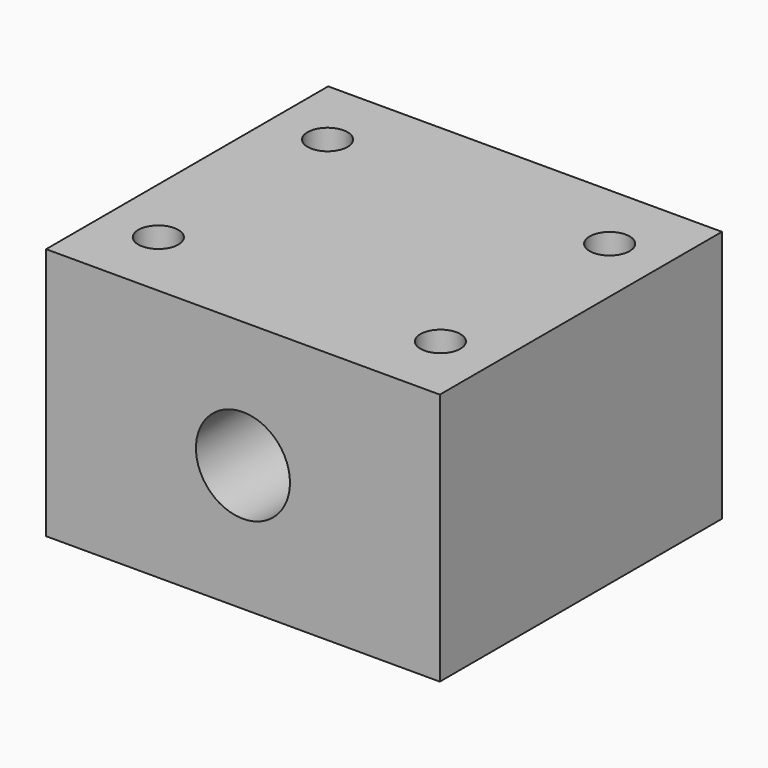
from build123d import *

# Parameters (mm, degrees)
SKETCH_W     = 33.5
SKETCH_H     = 21.5
SKETCH_R     = 4
PAD_DEPTH    = 30
SKETCH001_R  = 1.7
POCKET_DEPTH = 21.501


with BuildPart() as part:
    # Sketch → Pad (new body)
    with BuildSketch(Plane.XZ):
        Rectangle(SKETCH_W, SKETCH_H)
        Circle(SKETCH_R, mode=Mode.SUBTRACT)
    extrude(amount=PAD_DEPTH)

    # Sketch001 → Pocket (cut, through all)
    with BuildSketch(Plane(origin=(0, 0, -10.75), x_dir=(1, 0, 0), z_dir=(0, 0, -1))):
        with Locations((-12, 24)):
            Circle(SKETCH001_R)
        with Locations((12, 24)):
            Circle(SKETCH001_R)
        with Locations((12, 6)):
            Circle(SKETCH001_R)
        with Locations((-12, 6)):
            Circle(SKETCH001_R)
    extrude(amount=-POCKET_DEPTH, mode=Mode.SUBTRACT)


solid = part.part
